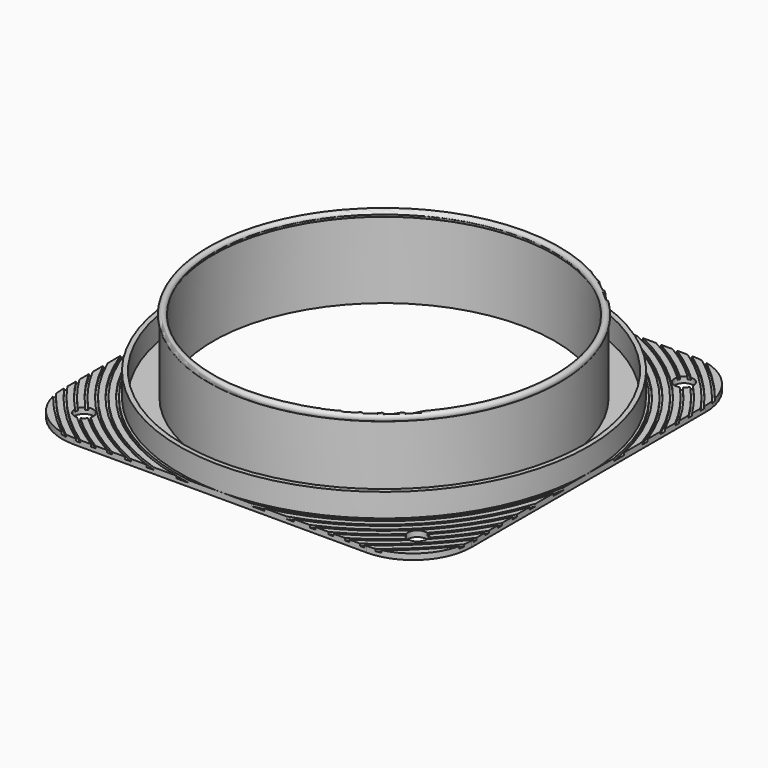
from build123d import *

# Parameters (mm, degrees)
F0_W      = 175
F0_H      = 175
F0_R      = 73
F1_DEPTH  = 2.5
F2_R      = 75
F2_R_2    = 73
F3_DEPTH  = 30
F6_R      = 25
F8_D      = 8
F9_R      = 87.5
F9_R_2    = 85.5
F10_DEPTH = 10
F11_W     = 1
F11_H     = 1.666664


with BuildPart() as f1:
    # F0 (on Top) → F1 (new body)
    with BuildSketch(Plane.XY):
        Rectangle(F0_W, F0_H)
        Circle(F0_R, mode=Mode.SUBTRACT)
    extrude(amount=F1_DEPTH)

    # F2 (on face) → F3 (join)
    with BuildSketch(Plane.XY.offset(2.5)):
        Circle(F2_R)
        Circle(F2_R_2, mode=Mode.SUBTRACT)
    extrude(amount=F3_DEPTH)

    # F6
    f6_edges = [f1.edges().sort_by_distance(p)[0] for p in [
        (-87.5, -87.5, 1.25),
        (87.5, -87.5, 1.25),
        (87.5, 87.5, 1.25),
        (-87.5, 87.5, 1.25),
    ]]
    fillet(f6_edges, radius=F6_R)

    # F8 (through all)
    with Locations(Plane.XY.offset(2.5)):
        with Locations((-71.25, 71.25), (71.25, 71.25), (71.25, -71.25), (-71.25, -71.25)):
            Hole(F8_D / 2)

    # F9 (on face) → F10 (join)
    with BuildSketch(Plane.XY.offset(2.5)):
        Circle(F9_R)
        Circle(F9_R_2, mode=Mode.SUBTRACT)
    extrude(amount=F10_DEPTH)

    # F11 (on Front) → F12 (revolve, cut)
    with BuildSketch(Plane.XZ):
        with Locations((-89, 2.333332)):
            Rectangle(F11_W, F11_H)
        with Locations((-92.499982, 2.344404)):
            Rectangle(F11_W, F11_H)
        with Locations((-95.999965, 2.355476)):
            Rectangle(F11_W, F11_H)
        with Locations((-99.499947, 2.366547)):
            Rectangle(F11_W, F11_H)
        with Locations((-102.99993, 2.377619)):
            Rectangle(F11_W, F11_H)
        with Locations((-106.499912, 2.388691)):
            Rectangle(F11_W, F11_H)
        with Locations((-109.999895, 2.399763)):
            Rectangle(F11_W, F11_H)
    revolve(axis=Axis((0, 0, 18.744199), (0, 0, 1)), mode=Mode.SUBTRACT)


with BuildPart() as f5:
    # F4 (on Right) → F5 (revolve)
    with BuildSketch(Plane.YZ):
        with BuildLine():
            Line((-75, 32.5), (-73, 32.5))
            ThreePointArc((-73, 32.5), (-72.630694, 33.005662), (-72.5, 33.618034))
            ThreePointArc((-72.5, 33.618034), (-74.612372, 34.98734), (-75, 32.5))
        make_face()
    revolve(axis=Axis((0, 0, 16.390443), (0, 0, 1)))


solid = Compound([f1.part, f5.part])
